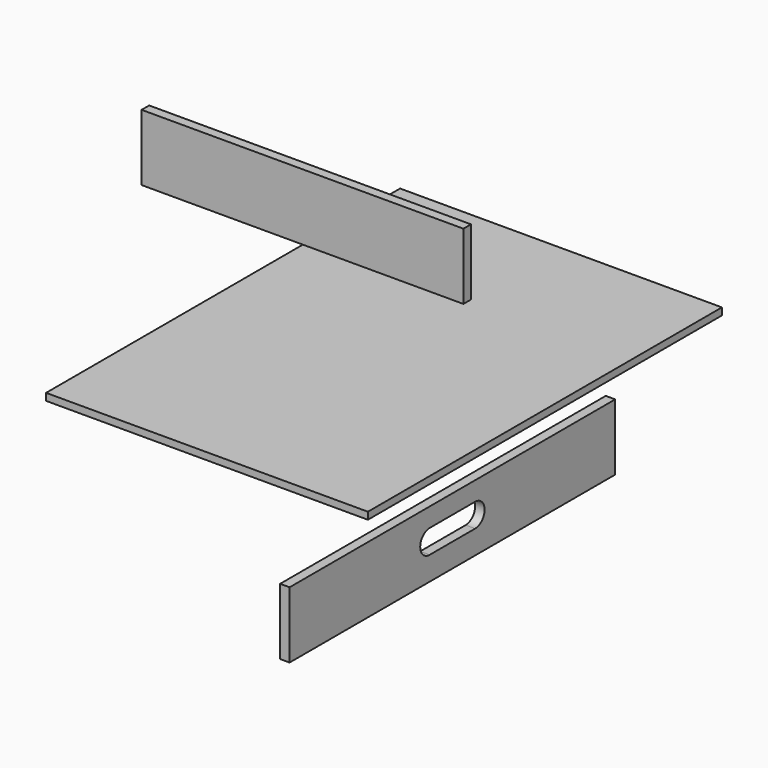
from build123d import *

# Parameters (mm, degrees)
F0_W     = 431.8
F0_H     = 14.2875
F0_H_2   = 565.15
F1_DEPTH = 9.525
F2_W     = 431.8
F2_H     = 88.9
F3_DEPTH = 12.7
F4_W     = 546.1
F4_H     = 88.9
F5_DEPTH = 12.7


with BuildPart() as f1:
    # F0 (on Top) → F1 (new body)
    with BuildSketch(Plane.XY):
        with Locations((-121.654975, -282.685882)):
            Rectangle(F0_W, F0_H)
        with Locations((-121.654975, 7.032868)):
            Rectangle(F0_W, F0_H_2)
        with Locations((-121.654975, 296.751618)):
            Rectangle(F0_W, F0_H)
    extrude(amount=F1_DEPTH)


with BuildPart() as f3:
    # F2 (on Front) → F3 (new body)
    with BuildSketch(Plane.XZ):
        with Locations((-215.207472, 156.28692)):
            Rectangle(F2_W, F2_H)
    extrude(amount=F3_DEPTH)


with BuildPart() as f5:
    # F4 (on Right) → F5 (new body)
    with BuildSketch(Plane.YZ):
        with Locations((-46.194336, -138.769281)):
            Rectangle(F4_W, F4_H)
        with BuildLine():
            ThreePointArc((-84.294336, -151.469281), (-100.169336, -135.594281), (-84.294336, -119.719281))
            Line((-84.294336, -119.719281), (-8.094336, -119.719281))
            ThreePointArc((-8.094336, -119.719281), (7.780664, -135.594281), (-8.094336, -151.469281))
            Line((-8.094336, -151.469281), (-84.294336, -151.469281))
        make_face(mode=Mode.SUBTRACT)
    extrude(amount=F5_DEPTH)


solid = Compound([f1.part, f3.part, f5.part])
